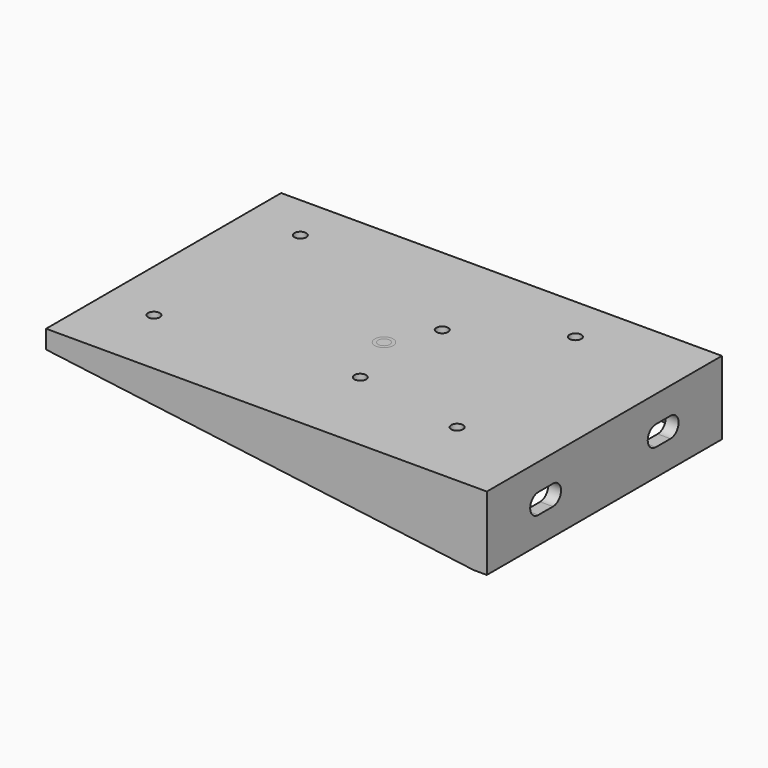
from build123d import *

# Parameters (mm, degrees)
F0_W     = 120
F0_H     = 80
F0_R     = 1.6
F1_DEPTH = 5
F2_W     = 80
F2_H     = 20
F3_DEPTH = 3.5
F5_DEPTH = 3.5
F7_DEPTH = 3.5
F8_R     = 2.5
F8_R_2   = 1.6
F9_DEPTH = 5


with BuildPart() as f1:
    # F0 (on Top) → F1 (new body)
    with BuildSketch(Plane.XY):
        Rectangle(F0_W, F0_H)
        with Locations((-46, -20.8)):
            Circle(F0_R, mode=Mode.SUBTRACT)
        with Locations((36.55, -20.8)):
            Circle(F0_R, mode=Mode.SUBTRACT)
        with Locations((6.1, -15.7)):
            Circle(F0_R, mode=Mode.SUBTRACT)
        with Locations((-44.7, 27.4)):
            Circle(F0_R, mode=Mode.SUBTRACT)
        with Locations((6.1, 12.2)):
            Circle(F0_R, mode=Mode.SUBTRACT)
        with Locations((30.2, 27.4)):
            Circle(F0_R, mode=Mode.SUBTRACT)
    extrude(amount=F1_DEPTH)

    # F2 (on face) → F3 (join)
    with BuildSketch(Plane.YZ.offset(60)):
        with Locations((0, -5)):
            Rectangle(F2_W, F2_H)
        with BuildLine():
            ThreePointArc((-17.5, -2.25), (-14.75, -5), (-17.5, -7.75))
            Line((-17.5, -7.75), (-22.5, -7.75))
            ThreePointArc((-22.5, -7.75), (-25.25, -5), (-22.5, -2.25))
            Line((-22.5, -2.25), (-17.5, -2.25))
        make_face(mode=Mode.SUBTRACT)
        with BuildLine():
            ThreePointArc((22.5, -2.25), (25.25, -5), (22.5, -7.75))
            Line((22.5, -7.75), (17.5, -7.75))
            ThreePointArc((17.5, -7.75), (14.75, -5), (17.5, -2.25))
            Line((17.5, -2.25), (22.5, -2.25))
        make_face(mode=Mode.SUBTRACT)
    extrude(amount=-F3_DEPTH)

    # F4 (on face) → F5 (join)
    with BuildSketch(Plane.XZ.offset(40)):
        Polygon((-60, 0), (56.5, -15), (56.5, 0), align=None)
    extrude(amount=-F5_DEPTH)

    # F6 (on face) → F7 (join)
    with BuildSketch(Plane(origin=(0, 40, 0), x_dir=(-1, 0, 0), z_dir=(0, 1, 0))):
        Polygon((-56.5, 0), (-56.5, -15), (60, 0), align=None)
    extrude(amount=-F7_DEPTH)


with BuildPart() as f9:
    # F8 (on Top) → F9 (new body)
    with BuildSketch(Plane.XY):
        Circle(F8_R)
        Circle(F8_R_2, mode=Mode.SUBTRACT)
    extrude(amount=F9_DEPTH)


solid = Compound([f1.part, f9.part])
